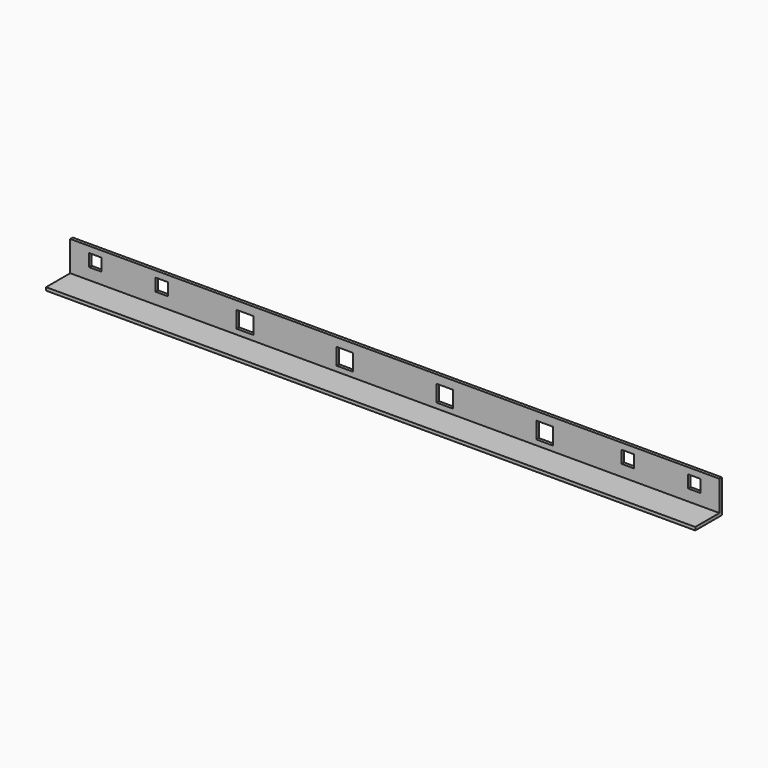
from build123d import *

# Parameters (mm, degrees)
F0_W     = 1981.2
F0_H     = 101.6
F0_W_2   = 50.8
F0_H_2   = 50.8
F0_W_3   = 38.1
F0_H_3   = 38.1
F1_DEPTH = 9.525
F2_W     = 1981.2
F2_H     = 9.525
F3_DEPTH = 92.075


with BuildPart() as f1:
    # F0 (on Front) → F1 (new body)
    with BuildSketch(Plane.XZ):
        with Locations((990.6, 50.8)):
            Rectangle(F0_W, F0_H)
        with Locations((533.4, 50.8)):
            Rectangle(F0_W_2, F0_H_2, mode=Mode.SUBTRACT)
        with Locations((838.2, 50.8)):
            Rectangle(F0_W_2, F0_H_2, mode=Mode.SUBTRACT)
        with Locations((1143, 50.8)):
            Rectangle(F0_W_2, F0_H_2, mode=Mode.SUBTRACT)
        with Locations((1447.8, 50.8)):
            Rectangle(F0_W_2, F0_H_2, mode=Mode.SUBTRACT)
        with Locations((76.2, 63.5)):
            Rectangle(F0_W_3, F0_H_3, mode=Mode.SUBTRACT)
        with Locations((279.4, 63.5)):
            Rectangle(F0_W_3, F0_H_3, mode=Mode.SUBTRACT)
        with Locations((1701.8, 63.5)):
            Rectangle(F0_W_3, F0_H_3, mode=Mode.SUBTRACT)
        with Locations((1905, 63.5)):
            Rectangle(F0_W_3, F0_H_3, mode=Mode.SUBTRACT)
    extrude(amount=F1_DEPTH)

    # F2 (on face) → F3 (join)
    with BuildSketch(Plane.XZ.offset(9.525)):
        with Locations((990.6, 4.7625)):
            Rectangle(F2_W, F2_H)
    extrude(amount=F3_DEPTH)


solid = f1.part
